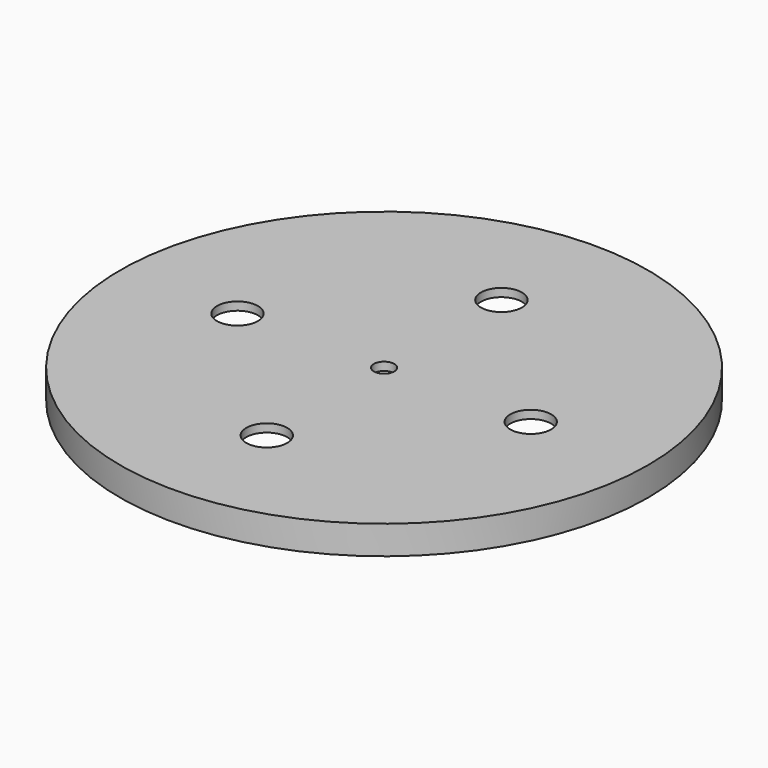
from build123d import *

# Parameters (mm, degrees)
F0_R     = 38.7
F0_R_2   = 3
F0_R_3   = 1.5
F1_DEPTH = 1.2
F2_R     = 38.7
F2_R_2   = 37.5
F3_DEPTH = 3


with BuildPart() as f1:
    # F0 (on Top) → F1 (new body)
    with BuildSketch(Plane.XY):
        Circle(F0_R)
        with Locations((0, -21.5)):
            Circle(F0_R_2, mode=Mode.SUBTRACT)
        with Locations((-21.5, 0)):
            Circle(F0_R_2, mode=Mode.SUBTRACT)
        Circle(F0_R_3, mode=Mode.SUBTRACT)
        with Locations((21.5, 0)):
            Circle(F0_R_2, mode=Mode.SUBTRACT)
        with Locations((0, 21.5)):
            Circle(F0_R_2, mode=Mode.SUBTRACT)
    extrude(amount=F1_DEPTH)

    # F2 (on face) → F3 (join)
    with BuildSketch(Plane(origin=(0, 0, 0), x_dir=(1, 0, 0), z_dir=(0, 0, -1))):
        Circle(F2_R)
        Circle(F2_R_2, mode=Mode.SUBTRACT)
    extrude(amount=F3_DEPTH)


solid = f1.part
